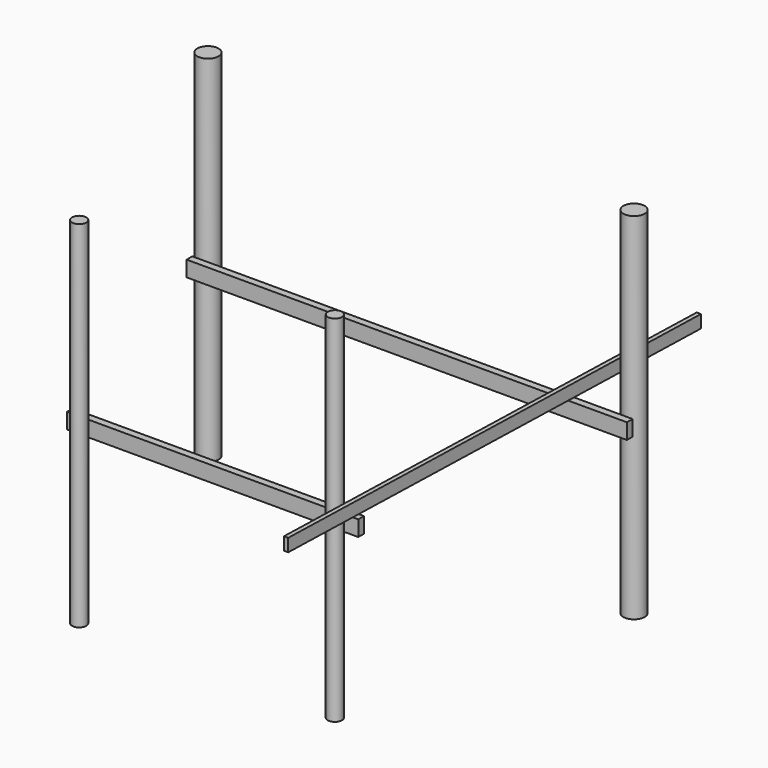
from build123d import *

# Parameters (mm, degrees)
F0_R     = 100
F1_DEPTH = 5000
F0_R_2   = 150
F4_W     = 4100
F4_H     = 100
F5_DEPTH = 220
F6_W     = 6200
F6_H     = 100
F7_DEPTH = 220
F9_DEPTH = 180


with BuildPart() as f1:
    # F0 (on Top) → F1 (new body)
    with BuildSketch(Plane.XY):
        Circle(F0_R)
    extrude(amount=F1_DEPTH)



with BuildPart() as f1b:
    # F0 (on Top) → F1, piece 2 (new body)
    with BuildSketch(Plane.XY):
        with Locations((-1387.2103691101, 4000)):
            Circle(F0_R_2)
    extrude(amount=F1_DEPTH)


with BuildPart() as f1c:
    # F0 (on Top) → F1, piece 3 (new body)
    with BuildSketch(Plane.XY):
        with Locations((4612.7896308899, 4000)):
            Circle(F0_R_2)
    extrude(amount=F1_DEPTH)


with BuildPart() as f1d:
    # F0 (on Top) → F1, piece 4 (new body)
    with BuildSketch(Plane.XY):
        with Locations((3600, 0)):
            Circle(F0_R)
    extrude(amount=F1_DEPTH)


with BuildPart() as f1_1:
    add(f1.part)

    add(f1d.part)  # F5 merges F1d
    # F4 (on mid) → F5 (join)
    with BuildSketch(Plane.XY.offset(2500)):
        with Locations((1800, 150)):
            Rectangle(F4_W, F4_H)
    extrude(amount=-F5_DEPTH)


with BuildPart() as f7:
    # F6 (on mid) → F7 (new body, through all)
    with BuildSketch(Plane.XY.offset(2500)):
        with Locations((1612.7896308899, 3800)):
            Rectangle(F6_W, F6_H)
    extrude(amount=-F7_DEPTH)


with BuildPart() as f9:
    # F8 (on mid) → F9 (new body)
    with BuildSketch(Plane.XY.offset(2500)):
        Polygon((3894.239503031, 6002.2538818607), (3679.4588223743, -994.4502893342), (3739.4305724132, -996.291266597), (3954.2112530699, 6000.4129045979), align=None)
    extrude(amount=F9_DEPTH)


solid = Compound([f1b.part, f1c.part, f1_1.part, f7.part, f9.part])
